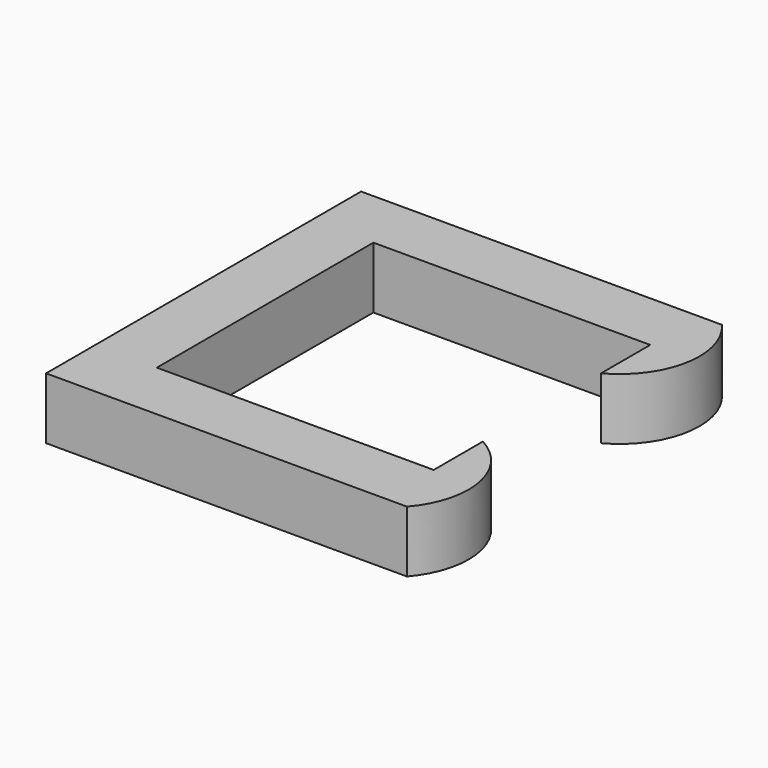
from build123d import *

# Parameters (mm, degrees)
F1_DEPTH = 6.35


with BuildPart() as f1:
    # F0 (on Top) → F1 (new body)
    with BuildSketch(Plane.XY):
        with BuildLine():
            Line((-18.265917, -23.272872), (-18.265917, -29.622872))
            Line((-18.265917, -29.622872), (-46.840917, -29.622872))
            Line((-46.840917, -29.622872), (-46.840917, -1.682872))
            Line((-46.840917, -1.682872), (-18.265917, -1.682872))
            Line((-18.265917, -1.682872), (-18.265917, -8.032872))
            ThreePointArc((-18.265917, -8.032872), (-14.049093, -2.240762), (-15.949407, 4.667128))
            Line((-15.949407, 4.667128), (-53.190917, 4.667128))
            Line((-53.190917, 4.667128), (-53.190917, -35.972872))
            Line((-53.190917, -35.972872), (-15.949407, -35.972872))
            ThreePointArc((-15.949407, -35.972872), (-14.049093, -29.064982), (-18.265917, -23.272872))
        make_face()
    extrude(amount=F1_DEPTH)


solid = f1.part
